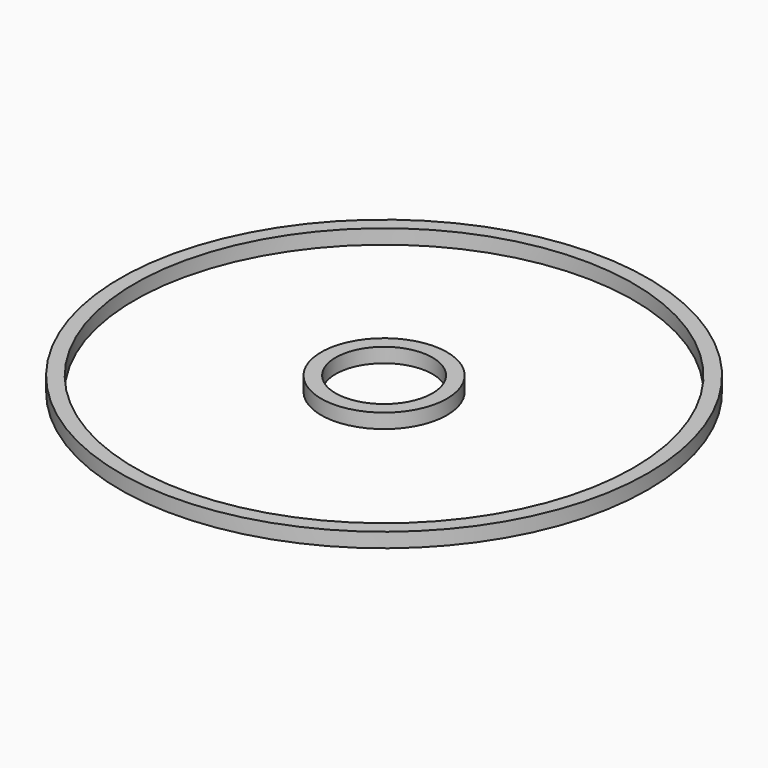
from build123d import *

# Parameters (mm, degrees)
F0_W = 3.81
F0_H = 3.81
F2_W = 3.81
F2_H = 3.81


with BuildPart() as f1:
    # F0 (on Front) → F1 (revolve)
    with BuildSketch(Plane.XZ):
        with Locations((14.605, 0)):
            Rectangle(F0_W, F0_H)
    revolve(axis=Axis((0, 0, 0.425403), (0, 0, -1)))


with BuildPart() as f3:
    # F2 (on Front) → F3 (revolve)
    with BuildSketch(Plane.XZ):
        with Locations((67.31, -0.0709)):
            Rectangle(F2_W, F2_H)
    revolve(axis=Axis((0.001828, 0, 0.354502), (0, 0, -1)))


solid = Compound([f1.part, f3.part])
